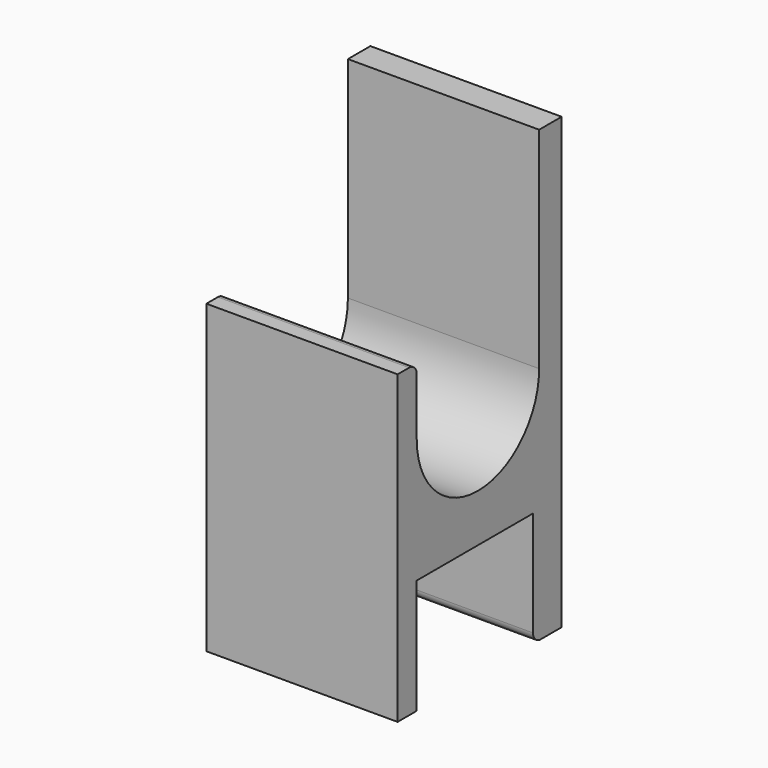
from build123d import *

# Parameters (mm, degrees)
F1_DEPTH = 25.4
F2_R     = 1.27
F3_R     = 1.27


with BuildPart() as f1:
    # F0 (on Right) → F1 (new body)
    with BuildSketch(Plane.YZ):
        with BuildLine():
            Line((-24.031516, -15.24), (-24.031516, 0))
            Line((-24.031516, 0), (-4.727516, 0))
            Line((-4.727516, 0), (-4.727516, -15.24))
            Line((-4.727516, -15.24), (0.022284, -15.24))
            Line((0.022284, -15.24), (0.022284, 44.45))
            Line((0.022284, 44.45), (-3.711516, 44.45))
            Line((-3.711516, 44.45), (-3.711516, 16.51))
            ThreePointArc((-3.711516, 16.51), (-13.871516, 6.35), (-24.031516, 16.51))
            Line((-24.031516, 16.51), (-24.031516, 25.4))
            Line((-24.031516, 25.4), (-27.206516, 25.4))
            Line((-27.206516, 25.4), (-27.206516, -15.24))
            Line((-27.206516, -15.24), (-26.082276, -15.24))
            Line((-26.082276, -15.24), (-24.031516, -15.24))
        make_face()
    extrude(amount=F1_DEPTH)

    # F2
    f2_edges = [f1.edges().sort_by_distance(p)[0] for p in [
        (12.7, -24.031516, 25.4),
    ]]
    fillet(f2_edges, radius=F2_R)

    # F3
    f3_edges = [f1.edges().sort_by_distance(p)[0] for p in [
        (12.7, -4.727516, -15.24),
    ]]
    fillet(f3_edges, radius=F3_R)


solid = f1.part
